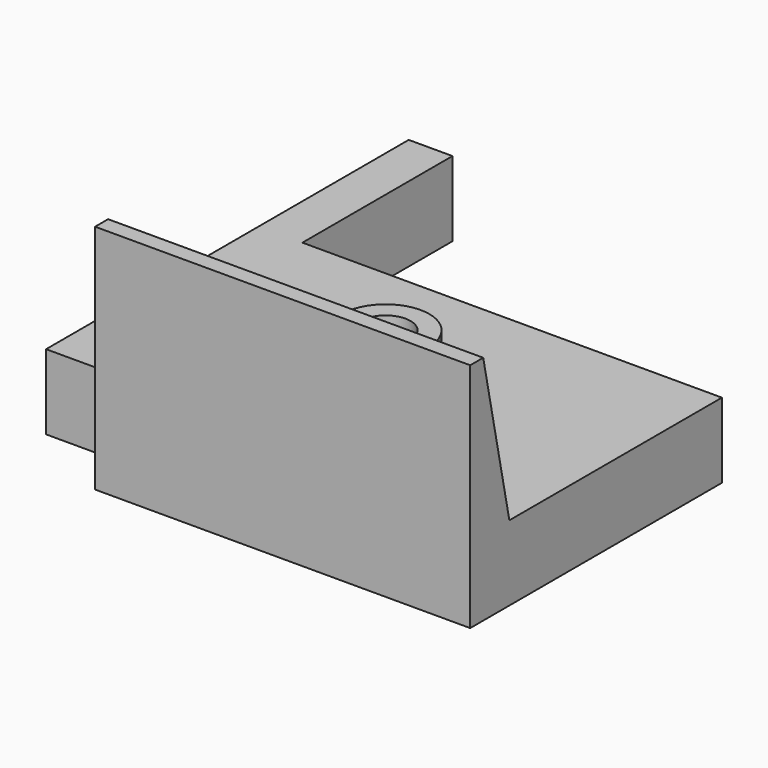
from build123d import *

# Parameters (mm, degrees)
F0_W      = 3.500263
F0_H      = 15
F1_DEPTH  = 6
F2_R      = 3.5
F2_R_2    = 2
F3_DEPTH  = 3
F3_FACE_R = 2
F4_DEPTH  = 25
F6_DEPTH  = 30


with BuildPart() as f1:
    # F0 (on Top) → F1 (new body)
    with BuildSketch(Plane.XY):
        with Locations((-35.299869, 28.75)):
            Rectangle(F0_W, F0_H)
        Polygon((-37.05, 0), (0, 0), (0, 21.25), (-33.549737, 21.25), (-37.05, 21.25), align=None)
    extrude(amount=F1_DEPTH)

    # F2 (on face) → F3 (join)
    with BuildSketch(Plane.XY.offset(6)):
        with Locations((-18.5, 10.75)):
            Circle(F2_R)
        with Locations((-18.5, 10.75)):
            Circle(F2_R_2, mode=Mode.SUBTRACT)
    extrude(amount=F3_DEPTH)

    # F3_face (on face) → F4 (cut)
    with BuildSketch(Plane(origin=(-18.5, 10.75, 6), x_dir=(1, 0, 0), z_dir=(0, 0, 1))):
        Circle(F3_FACE_R)
    extrude(amount=-F4_DEPTH, mode=Mode.SUBTRACT)

    # F5 (on face) → F6 (join)
    with BuildSketch(Plane.YZ):
        Polygon((-3.914129, 0), (0, 0), (0, 6), (-2.612495, 18.507209), (-3.914129, 18.507209), align=None)
    extrude(amount=-F6_DEPTH)


solid = f1.part
